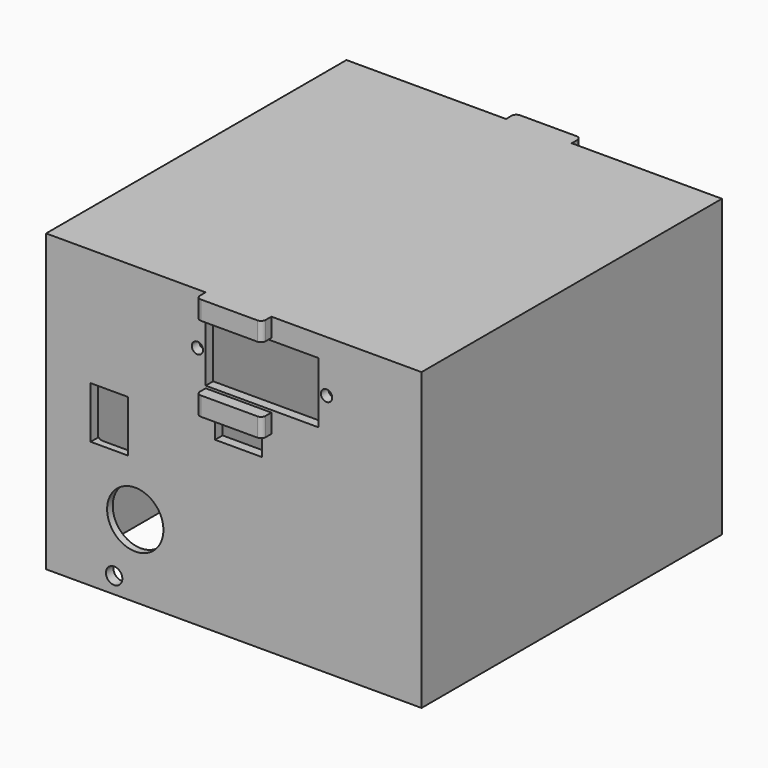
from build123d import *

# Parameters (mm, degrees)
BOX035_W               = 10
BOX035_H               = 94
BOX035_DEPTH           = 4
BOX032_W               = 14
BOX032_H               = 3
BOX032_DEPTH           = 4
BOX031_W               = 14
BOX031_H               = 3
BOX031_DEPTH           = 4
BOX033_W               = 14
BOX033_H               = 3
BOX033_DEPTH           = 4
BOX034_W               = 14
BOX034_H               = 3
BOX034_DEPTH           = 4
SKETCH010_R            = 1.2
SKETCH010_W            = 24
SKETCH010_H            = 13
PAD005_DEPTH           = 140
CYLINDER044_R          = 6
CYLINDER044_DEPTH      = 31
CYLINDER044_ROLL_ANGLE = 90
CYLINDER042_R          = 1.75
CYLINDER042_DEPTH      = 31
CYLINDER042_ROLL_ANGLE = 90
BOX029_W               = 17
BOX029_H               = 77
BOX029_DEPTH           = 49
FILLET008_R            = 2
CYLINDER045_R          = 4
CYLINDER045_DEPTH      = 31
CYLINDER045_ROLL_ANGLE = 90
CYLINDER043_R          = 1.75
CYLINDER043_DEPTH      = 31
CYLINDER043_ROLL_ANGLE = 90
BOX028_W               = 8
BOX028_H               = 24
BOX028_DEPTH           = 11
BOX027_W               = 76
BOX027_H               = 76
BOX027_DEPTH           = 66
FILLET007_R            = 3.5
BOX030_W               = 80
BOX030_H               = 80
BOX030_DEPTH           = 63
FILLET009_R            = 1


with BuildPart() as cubo:
    # Box035 → Box035 (new body)
    with BuildSketch(Plane(origin=(13, -11, 104), x_dir=(1, 0, 0), z_dir=(0, 0, 1))):
        with Locations((5, 47)):
            Rectangle(BOX035_W, BOX035_H)
    extrude(amount=BOX035_DEPTH)


with BuildPart() as cubo009:
    # Box032 → Box032 (new body)
    with BuildSketch(Plane(origin=(11, 75.5, 127), x_dir=(1, 0, 0), z_dir=(0, 0, 1))):
        with Locations((7, 1.5)):
            Rectangle(BOX032_W, BOX032_H)
    extrude(amount=BOX032_DEPTH)


with BuildPart() as cubo008:
    # Box031 → Box031 (new body)
    with BuildSketch(Plane(origin=(11, 75.5, 109), x_dir=(1, 0, 0), z_dir=(0, 0, 1))):
        with Locations((7, 1.5)):
            Rectangle(BOX031_W, BOX031_H)
    extrude(amount=BOX031_DEPTH)


with BuildPart() as cubo010:
    # Box033 → Box033 (new body)
    with BuildSketch(Plane(origin=(11, -6.5, 109), x_dir=(1, 0, 0), z_dir=(0, 0, 1))):
        with Locations((7, 1.5)):
            Rectangle(BOX033_W, BOX033_H)
    extrude(amount=BOX033_DEPTH)


with BuildPart() as cubo011:
    # Box034 → Box034 (new body)
    with BuildSketch(Plane(origin=(11, -6.5, 127), x_dir=(1, 0, 0), z_dir=(0, 0, 1))):
        with Locations((7, 1.5)):
            Rectangle(BOX034_W, BOX034_H)
    extrude(amount=BOX034_DEPTH)


with BuildPart() as pad005:
    # Sketch010 → Pad005 (new body)
    with BuildSketch(Plane(origin=(-0.25, -35, 0), x_dir=(1, 0, 0), z_dir=(0, -1, 0))):
        with Locations((37, 120)):
            Circle(SKETCH010_R)
        with Locations((9.5, 120)):
            Circle(SKETCH010_R)
        with Locations((23.25, 120)):
            Rectangle(SKETCH010_W, SKETCH010_H)
    extrude(amount=-PAD005_DEPTH)


with BuildPart() as cylinder107:
    # Cylinder044 → Cylinder044 (new body)
    with BuildSketch(Plane.XY):
        Circle(CYLINDER044_R)
    extrude(amount=CYLINDER044_DEPTH)


with BuildPart() as cylinder107_1:
    # Cylinder044 roll: moved
    add(cylinder107.part.rotate(Axis((0, 0, 0), (1, 0, 0)), CYLINDER044_ROLL_ANGLE))


with BuildPart() as cylinder107_2:
    # Cylinder044 placement: moved
    add(cylinder107_1.part.moved(Location((-4, 11, 83.5))))


with BuildPart() as cylinder105:
    # Cylinder042 → Cylinder042 (new body)
    with BuildSketch(Plane.XY):
        Circle(CYLINDER042_R)
    extrude(amount=CYLINDER042_DEPTH)


with BuildPart() as cylinder105_1:
    # Cylinder042 roll: moved
    add(cylinder105.part.rotate(Axis((0, 0, 0), (1, 0, 0)), CYLINDER042_ROLL_ANGLE))


with BuildPart() as cylinder105_2:
    # Cylinder042 placement: moved
    add(cylinder105_1.part.moved(Location((-8.5, 11, 71.5))))


with BuildPart() as fillet008:
    # Box029 → Box029 (new body)
    with BuildSketch(Plane(origin=(-14, -2.5, 75), x_dir=(1, 0, 0), z_dir=(0, 0, 1))):
        with Locations((8.5, 38.5)):
            Rectangle(BOX029_W, BOX029_H)
    extrude(amount=BOX029_DEPTH)

    # Fillet008
    fillet008_edges = [fillet008.edges().sort_by_distance(p)[0] for p in [
        (-14, -2.5, 99.5),
        (-14, 36, 124),
        (-14, 74.5, 99.5),
        (-14, 36, 75),
        (3, -2.5, 99.5),
        (3, 36, 124),
        (3, 74.5, 99.5),
        (3, 36, 75),
        (-5.5, -2.5, 75),
        (-5.5, -2.5, 124),
        (-5.5, 74.5, 75),
        (-5.5, 74.5, 124),
    ]]
    fillet(fillet008_edges, radius=FILLET008_R)


with BuildPart() as cylinder108:
    # Cylinder045 → Cylinder045 (new body)
    with BuildSketch(Plane.XY):
        Circle(CYLINDER045_R)
    extrude(amount=CYLINDER045_DEPTH)


with BuildPart() as cylinder108_1:
    # Cylinder045 roll: moved
    add(cylinder108.part.rotate(Axis((0, 0, 0), (1, 0, 0)), CYLINDER045_ROLL_ANGLE))


with BuildPart() as cylinder108_2:
    # Cylinder045 placement: moved
    add(cylinder108_1.part.moved(Location((-7, 80, 89.6))))


with BuildPart() as cylinder106:
    # Cylinder043 → Cylinder043 (new body)
    with BuildSketch(Plane.XY):
        Circle(CYLINDER043_R)
    extrude(amount=CYLINDER043_DEPTH)


with BuildPart() as cylinder106_1:
    # Cylinder043 roll: moved
    add(cylinder106.part.rotate(Axis((0, 0, 0), (1, 0, 0)), CYLINDER043_ROLL_ANGLE))


with BuildPart() as cylinder106_2:
    # Cylinder043 placement: moved
    add(cylinder106_1.part.moved(Location((-8.5, 80, 71.5))))


with BuildPart() as fusion031:
    # Box028 → Box028 (new body)
    with BuildSketch(Plane(origin=(-13.5, -13, 95), x_dir=(1, 0, 0), z_dir=(0, 0, 1))):
        with Locations((4, 12)):
            Rectangle(BOX028_W, BOX028_H)
    extrude(amount=BOX028_DEPTH)

    # Fusion031: union Cylinder107, Cylinder105, Fillet008, Cylinder108, Cylinder106
    add(cylinder107_2.part)
    add(cylinder105_2.part)
    add(fillet008.part)
    add(cylinder108_2.part)
    add(cylinder106_2.part)


with BuildPart() as fillet007:
    # Box027 → Box027 (new body)
    with BuildSketch(Plane(origin=(-21, -2, 87), x_dir=(1, 0, 0), z_dir=(0, 0, 1))):
        with Locations((38, 38)):
            Rectangle(BOX027_W, BOX027_H)
    extrude(amount=BOX027_DEPTH)

    # Fillet007
    fillet007_edges = [fillet007.edges().sort_by_distance(p)[0] for p in [
        (-21, -2, 120),
        (-21, 36, 153),
        (-21, 74, 120),
        (55, -2, 120),
        (55, 36, 153),
        (55, 74, 120),
        (17, -2, 153),
        (17, 74, 153),
    ]]
    fillet(fillet007_edges, radius=FILLET007_R)


with BuildPart() as fillet007_1:
    # Fillet007 placement: moved
    add(fillet007.part.moved(Location((0, 0, -24))))


with BuildPart() as obj1:
    # Box030 → Box030 (new body)
    with BuildSketch(Plane(origin=(-23, -4, 68), x_dir=(1, 0, 0), z_dir=(0, 0, 1))):
        with Locations((40, 40)):
            Rectangle(BOX030_W, BOX030_H)
    extrude(amount=BOX030_DEPTH)

    # Cut045: cut Fillet007
    add(fillet007_1.part, mode=Mode.SUBTRACT)

    # Cut046: cut Fusion031
    add(fusion031.part, mode=Mode.SUBTRACT)

    # Cut047: cut Pad005
    add(pad005.part, mode=Mode.SUBTRACT)

    # Fusion032: union Cubo009, Cubo008, Cubo010, Cubo011
    add(cubo009.part)
    add(cubo008.part)
    add(cubo010.part)
    add(cubo011.part)

    # Fillet009
    fillet009_edges = [obj1.edges().sort_by_distance(p)[0] for p in [
        (25, -6.5, 129),
        (11, -6.5, 129),
        (11, -6.5, 111),
        (25, -6.5, 111),
        (25, 78.5, 129),
        (11, 78.5, 129),
        (25, 78.5, 111),
        (11, 78.5, 111),
    ]]
    fillet(fillet009_edges, radius=FILLET009_R)

    # Cut048: cut Cubo
    add(cubo.part, mode=Mode.SUBTRACT)


solid = obj1.part
